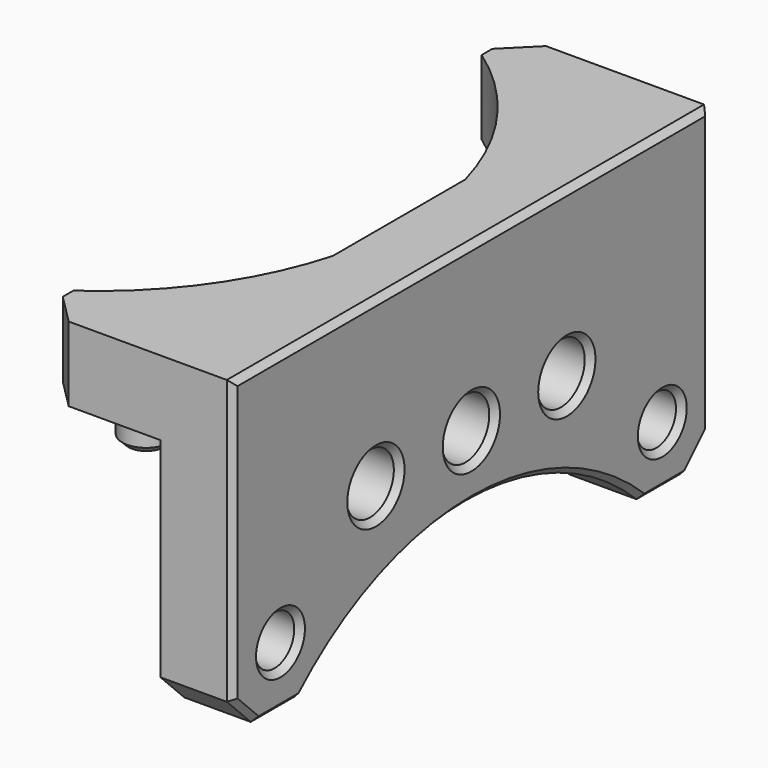
from build123d import *

# Parameters (mm, degrees)
CYLINDER023_R                 = 2
CYLINDER023_DEPTH             = 10
CYLINDER024_R                 = 2
CYLINDER024_DEPTH             = 10
CYLINDER025_R                 = 2
CYLINDER025_DEPTH             = 10
CYLINDER020_R                 = 1.65
CYLINDER020_DEPTH             = 10
CYLINDER021_R                 = 1.65
CYLINDER021_DEPTH             = 10
CYLINDER022_R                 = 20.75
CYLINDER022_DEPTH             = 6
BOX005_W                      = 40
BOX005_H                      = 4.85
BOX005_DEPTH                  = 21
CHAMFER007_SIZE               = 2
CYLINDER019_R                 = 1.6
CYLINDER019_DEPTH             = 3
CYLINDER018_R                 = 1.6
CYLINDER018_DEPTH             = 3
CHAMFER006_SIZE               = 0.4
CYLINDER017_R                 = 20.9
CYLINDER017_DEPTH             = 6
BOX004_W                      = 40
BOX004_H                      = 13
BOX004_DEPTH                  = 5
CHAMFER008_SIZE               = 2
CHAMFER009_SIZE               = 0.4
CHAMFER009002_SIZE            = 0.4
CHAMFER009002_ROLL_ANGLE      = 180
CHAMFER009002_PLACEMENT_ANGLE = -90


with BuildPart() as cylinder023:
    # Cylinder023 → Cylinder023 (new body)
    with BuildSketch(Plane(origin=(0, -20, 11), x_dir=(1, 0, 0), z_dir=(0, -1, 0))):
        Circle(CYLINDER023_R)
    extrude(amount=CYLINDER023_DEPTH)


with BuildPart() as cylinder024:
    # Cylinder024 → Cylinder024 (new body)
    with BuildSketch(Plane(origin=(-8, -20, 11), x_dir=(1, 0, 0), z_dir=(0, -1, 0))):
        Circle(CYLINDER024_R)
    extrude(amount=CYLINDER024_DEPTH)


with BuildPart() as fusion001025:
    # Cylinder025 → Cylinder025 (new body)
    with BuildSketch(Plane(origin=(8, -20, 11), x_dir=(1, 0, 0), z_dir=(0, -1, 0))):
        Circle(CYLINDER025_R)
    extrude(amount=CYLINDER025_DEPTH)

    # Fusion001025: union Cylinder023, Cylinder024
    add(cylinder023.part)
    add(cylinder024.part)


with BuildPart() as cylinder020:
    # Cylinder020 → Cylinder020 (new body)
    with BuildSketch(Plane(origin=(16, -19, 17), x_dir=(1, 0, 0), z_dir=(0, -1, 0))):
        Circle(CYLINDER020_R)
    extrude(amount=CYLINDER020_DEPTH)


with BuildPart() as fusion001023:
    # Cylinder021 → Cylinder021 (new body)
    with BuildSketch(Plane(origin=(-16, -19, 17), x_dir=(1, 0, 0), z_dir=(0, -1, 0))):
        Circle(CYLINDER021_R)
    extrude(amount=CYLINDER021_DEPTH)

    # Fusion001023: union Cylinder020
    add(cylinder020.part)


with BuildPart() as cylinder022:
    # Cylinder022 → Cylinder022 (new body)
    with BuildSketch(Plane(origin=(0, -20, 36), x_dir=(1, 0, 0), z_dir=(0, -1, 0))):
        Circle(CYLINDER022_R)
    extrude(amount=CYLINDER022_DEPTH)


with BuildPart() as chamfer007:
    # Box005 → Box005 (new body)
    with BuildSketch(Plane(origin=(-20, -25, 0), x_dir=(1, 0, 0), z_dir=(0, 0, 1))):
        with Locations((20, 2.425)):
            Rectangle(BOX005_W, BOX005_H)
    extrude(amount=BOX005_DEPTH)

    # Cut004003006002: cut Cylinder022
    add(cylinder022.part, mode=Mode.SUBTRACT)

    # Cut004003006003: cut Fusion001023
    add(fusion001023.part, mode=Mode.SUBTRACT)

    # Chamfer007
    chamfer007_edges = [chamfer007.edges().sort_by_distance(p)[0] for p in [
        (-20, -22.575, 21),
        (20, -22.575, 21),
    ]]
    chamfer(chamfer007_edges, length=CHAMFER007_SIZE)


with BuildPart() as cylinder019:
    # Cylinder019 → Cylinder019 (new body)
    with BuildSketch(Plane(origin=(16, -16, 5), x_dir=(1, 0, 0), z_dir=(0, 0, 1))):
        Circle(CYLINDER019_R)
    extrude(amount=CYLINDER019_DEPTH)


with BuildPart() as chamfer006:
    # Cylinder018 → Cylinder018 (new body)
    with BuildSketch(Plane(origin=(-16, -16, 5), x_dir=(1, 0, 0), z_dir=(0, 0, 1))):
        Circle(CYLINDER018_R)
    extrude(amount=CYLINDER018_DEPTH)

    # Fusion001022: union Cylinder019
    add(cylinder019.part)

    # Chamfer006
    chamfer006_edges = [chamfer006.edges().sort_by_distance(p)[0] for p in [
        (-17.6, -16, 8),
        (14.4, -16, 8),
    ]]
    chamfer(chamfer006_edges, length=CHAMFER006_SIZE)


with BuildPart() as cylinder017:
    # Cylinder017 → Cylinder017 (new body)
    with BuildSketch(Plane.XY):
        Circle(CYLINDER017_R)
    extrude(amount=CYLINDER017_DEPTH)


with BuildPart() as chamfer009002:
    # Box004 → Box004 (new body)
    with BuildSketch(Plane(origin=(-20, -25, 0), x_dir=(1, 0, 0), z_dir=(0, 0, 1))):
        with Locations((20, 6.5)):
            Rectangle(BOX004_W, BOX004_H)
    extrude(amount=BOX004_DEPTH)

    # Chamfer008
    chamfer008_edges = [chamfer009002.edges().sort_by_distance(p)[0] for p in [
        (-20, -12, 2.5),
        (20, -12, 2.5),
    ]]
    chamfer(chamfer008_edges, length=CHAMFER008_SIZE)

    # Cut004003006004: cut Cylinder017
    add(cylinder017.part, mode=Mode.SUBTRACT)

    # Fusion001024: union Chamfer007, Chamfer006
    add(chamfer007.part)
    add(chamfer006.part)

    # Cut004003006005: cut Fusion001025
    add(fusion001025.part, mode=Mode.SUBTRACT)

    # Chamfer009
    chamfer009_edges = [chamfer009002.edges().sort_by_distance(p)[0] for p in [
        (-10, -20.15, 11),
        (-2, -20.15, 11),
        (6, -20.15, 11),
    ]]
    chamfer(chamfer009_edges, length=CHAMFER009_SIZE)

    # Chamfer009002
    chamfer009002_edges = [chamfer009002.edges().sort_by_distance(p)[0] for p in [
        (19, -25, 20),
        (16.168725, -25, 21),
        (0, -25, 15.25),
        (-16.168725, -25, 21),
        (-19, -25, 20),
        (-17.65, -25, 17),
        (14.35, -25, 17),
        (-10, -25, 11),
        (-2, -25, 11),
        (6, -25, 11),
        (20, -25, 9.5),
        (0, -25, 0),
        (-20, -25, 9.5),
    ]]
    chamfer(chamfer009002_edges, length=CHAMFER009002_SIZE)


with BuildPart() as chamfer009002_1:
    # Chamfer009002 roll: moved
    add(chamfer009002.part.rotate(Axis((0, 0, 0), (1, 0, 0)), CHAMFER009002_ROLL_ANGLE))


with BuildPart() as chamfer009002_2:
    # Chamfer009002 placement: moved
    add(chamfer009002_1.part.moved(Location((0, 0, 50))).rotate(Axis((0, 0, 50), (0, 0, 1)), CHAMFER009002_PLACEMENT_ANGLE))


solid = chamfer009002_2.part
